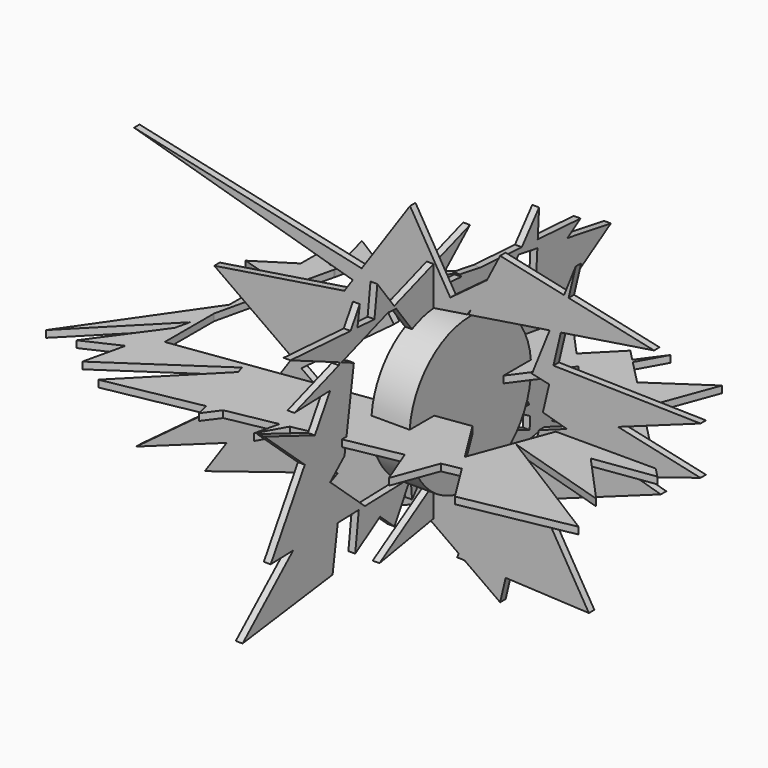
from build123d import *

# Parameters (mm, degrees)
F3_DEPTH = 3.556
F4_DEPTH = 3.556
F5_DEPTH = 3.556
F6_R     = 39.5240935615
F7_DEPTH = 19.812


with BuildPart() as f3:
    # F0 (on Front) → F3 (new body)
    with BuildSketch(Plane.XZ):
        Polygon((-65.1239782959, -10.4550908516), (-17.0232172991, 25.2769034648), (-23.0411367184, 34.212603782), (-25.5286680691, 34.9284764567), (-42.7567087754, 32.2481595858), (-69.7158570822, -7.1887027391), align=None)
        Polygon((-34.5774892022, -32.1840374318), (-65.1239782959, -10.4550908516), (-78.9904087515, -20.7558678863), (-103.9248145182, -57.2308602037), align=None)
        Polygon((-78.9904087515, -20.7558678863), (-65.1239782959, -10.4550908516), (-69.7158570822, -7.1887027391), align=None)
        Polygon((-32.773122484, -33.4675560683), (-34.5774892022, -32.1840374318), (-103.9248145182, -57.2308602037), (-115.2916625142, -73.8587155938), (-46.0811876107, -52.1759948206), align=None)
        Polygon((-18.5833732954, -43.561295521), (-32.773122484, -33.4675560683), (-46.0811876107, -52.1759948206), align=None)
        Polygon((-25.5286680691, 34.9284764567), (-23.7134490601, 35.2108859435), (-23.7789023668, 35.3080742061), (-23.1732105918, 35.2949355638), (-2.334726001, 38.5369607462), (-33.752168899, 45.4203412645), (-38.3935298862, 38.6307827753), align=None)
        Polygon((-42.7567087754, 32.2481595858), (-25.5286680691, 34.9284764567), (-38.3935298862, 38.6307827753), align=None)
        Polygon((-103.9248145182, -57.2308602037), (-78.9904087515, -20.7558678863), (-150.9600132704, -74.2190033197), align=None)
        Polygon((-110.3685515042, 21.7291942647), (-69.7158570822, -7.1887027391), (-42.7567087754, 32.2481595858), align=None)
        Polygon((27.6053097163, -41.4062016645), (33.2750505017, -27.3147414481), (-18.5833732954, -43.561295521), (-5.0383477875, -53.1964170823), align=None)
        Polygon((-18.5833732954, -43.561295521), (-46.0811876107, -52.1759948206), (-61.2486973405, -73.4984353185), (-5.0383477875, -53.1964170823), align=None)
        Polygon((63.6758798393, 24.0744177659), (60.4022208179, 10.1989086297), (72.8501194377, 6.6165978074), (99.4716943681, 16.2317612784), align=None)
        Polygon((57.7598698803, 33.5393383482), (54.7394095995, 26.0323468485), (63.6758798393, 24.0744177659), (65.8674524887, 33.3634689834), align=None)
        Polygon((-152.0408838987, 71.3367164135), (-38.3935298862, 38.6307827753), (-33.752168899, 45.4203412645), align=None)
        Polygon((72.8501194377, 6.6165978074), (58.3187800588, 1.3681779094), (53.0103089894, -21.1319475896), (108.6744964225, -3.6930984145), align=None)
        Polygon((16.653158761, -68.6264583415), (27.6053097163, -41.4062016645), (-5.0383477875, -53.1964170823), align=None)
        Polygon((50.1479198481, -33.2642761005), (27.6053097163, -41.4062016645), (16.653158761, -68.6264583415), (19.7069080191, -70.7987130413), (41.0538269193, -71.8098817039), align=None)
        Polygon((99.4716943681, 16.2317612784), (72.8501194377, 6.6165978074), (108.6744964225, -3.6930984145), (142.3131525517, 6.8454449065), align=None)
        Polygon((65.8674524887, 33.3634689834), (63.6758798393, 24.0744177659), (99.4716943681, 16.2317612784), (142.3131525517, 31.705211848), align=None)
        Polygon((63.9179333687, 48.8444660325), (57.7598698803, 33.5393383482), (65.8674524887, 33.3634689834), (69.7333551933, 49.7492220342), align=None)
        Polygon((23.0421265071, 44.9973565437), (21.6442713106, 42.2675829416), (63.9179333687, 48.8444660325), (71.3846735943, 67.4021526742), (38.1903685629, 74.5792984962), (31.3417952934, 61.2051989689), (38.1903685629, 66.2927106023), align=None)
        Polygon((-33.752168899, 45.4203412645), (-2.334726001, 38.5369607462), (1.6644103955, 39.1591413491), (12.2712666739, 47.0385203942), (-8.6468728259, 82.1453183889), align=None)
        Polygon((12.2712666739, 47.0385203942), (1.6644103955, 39.1591413491), (15.667999691, 41.3378021313), align=None)
        Polygon((15.667999691, 41.3378021313), (21.032639825, 42.1724260855), (23.0421265071, 44.9973565437), (31.3417952934, 61.2051989689), (12.2712666739, 47.0385203942), align=None)
        Polygon((108.6744964225, -3.6930984145), (53.0103089894, -21.1319475896), (52.9762296172, -21.2763941056), (58.3532806289, -30.3006691219), (121.6684211309, -7.4325470176), align=None)
        Polygon((58.3532806289, -30.3006691219), (52.9762296172, -21.2763941056), (50.1479198481, -33.2642761005), align=None)
        Polygon((58.3532806289, -30.3006691219), (50.1479198481, -33.2642761005), (41.0538269193, -71.8098817039), (84.3070372939, -73.8587155938), align=None)
        Polygon((19.7069080191, -70.7987130413), (16.653158761, -68.6264583415), (15.8526040614, -70.6161409616), align=None)
        Polygon((71.3846735943, 67.4021526742), (63.9179333687, 48.8444660325), (69.7333551933, 49.7492220342), (73.77622606, 66.8850603365), align=None)
        Polygon((31.3417952934, 61.2051989689), (23.0421265071, 44.9973565437), (38.1903685629, 66.2927106023), align=None)
        Polygon((38.1903685629, -83.9467421174), (41.0538269193, -71.8098817039), (19.7069080191, -70.7987130413), align=None)
        Polygon((73.77622606, 66.8850603365), (69.7333551933, 49.7492220342), (118.1739643216, 57.2855509818), align=None)
        Polygon((77.4615928531, 82.5056061149), (71.3846735943, 67.4021526742), (73.77622606, 66.8850603365), align=None)
    extrude(amount=F3_DEPTH)

    # F1 (on Right) → F4 (join)
    with BuildSketch(Plane.YZ):
        Polygon((-17.0405098304, 34.7231878488), (-14.1103638739, 30.8334620536), (22.7134725939, 32.0609231749), (14.4226974478, 46.3861233505), (-2.7393819765, 47.4506395433), align=None)
        Polygon((1.5405498355, -19.4453586194), (-1.3977497459, -18.3029092467), (-15.8718191373, -27.5831953109), (-18.4110963559, -31.9961349281), (-18.3919173806, -32.2190905376), (-8.7627724866, -31.9411695668), align=None)
        Polygon((14.4226974478, 46.3861233505), (22.7134725939, 32.0609231749), (44.6115098417, 32.7908576937), (51.7234647767, 41.4161963521), (26.8001406624, 45.618384873), align=None)
        Polygon((-27.7990729753, 49.0050226805), (-17.0405098304, 34.7231878488), (-2.7393819765, 47.4506395433), align=None)
        Polygon((-18.4110963559, -31.9961349281), (-18.6381306395, -29.3568611258), (-23.3242610382, -32.3614501918), (-18.5418791959, -32.223418807), align=None)
        Polygon((19.6474629743, -26.4855636712), (1.5405498355, -19.4453586194), (-8.7627724866, -31.9411695668), (11.911392082, -31.3444619724), align=None)
        Polygon((-18.3919173806, -32.2190905376), (-18.4110963559, -31.9961349281), (-18.5418791959, -32.223418807), align=None)
        Polygon((62.8931971637, 22.9182817345), (37.4472486214, 6.6031960968), (46.3821287241, -8.8349196113), (47.1904515883, -9.1862676267), (61.4576671233, -0.2252652921), align=None)
        Polygon((13.5766742751, 47.8479228914), (14.4226974478, 46.3861233505), (26.8001406624, 45.618384873), align=None)
        Polygon((-27.7990729753, 49.0050226805), (-2.7393819765, 47.4506395433), (20.1349593699, 67.8079202771), (-29.0801722407, 50.7056631717), align=None)
        Polygon((-33.0388285673, 49.330030189), (-27.7990729753, 49.0050226805), (-29.0801722407, 50.7056631717), align=None)
        Polygon((-38.2342534871, -41.9212354463), (-23.3242610382, -32.3614501918), (-48.1455165609, -33.0778531025), align=None)
        Polygon((-18.5418791959, -32.223418807), (-23.3242610382, -32.3614501918), (-38.2342534871, -41.9212354463), (-28.9096068591, -50.2412058413), align=None)
        Polygon((-48.1455165609, -33.0778531025), (-51.6753255819, -29.9283603951), (-52.0745784839, -33.191255561), align=None)
        Polygon((-52.0745784839, -33.191255561), (-51.6753255819, -29.9283603951), (-63.5631413583, -19.3213873626), (-65.7253894157, -33.5852517743), align=None)
        Polygon((-17.5038948655, -42.5423532724), (-8.7627724866, -31.9411695668), (-18.3919173806, -32.2190905376), align=None)
        Polygon((30.7460676779, -30.8008465857), (19.6474629743, -26.4855636712), (11.911392082, -31.3444619724), align=None)
        Polygon((53.807100575, 43.9432180452), (51.7234647767, 41.4161963521), (63.9130914267, 39.3609685283), (64.1574937933, 43.3012118576), align=None)
        Polygon((26.8001406624, 45.618384873), (51.7234647767, 41.4161963521), (53.807100575, 43.9432180452), align=None)
        Polygon((63.9130914267, 39.3609685283), (62.8931971637, 22.9182817345), (83.4109062667, 36.0735461393), align=None)
        Polygon((83.4109062667, 36.0735461393), (62.8931971637, 22.9182817345), (61.4576671233, -0.2252652921), (111.6658076644, 31.3096381724), align=None)
        Polygon((47.1904515883, -9.1862676267), (46.7467582636, -9.4649440725), (58.6292408407, -29.9960691482), (49.9721885851, -30.2459331177), (59.2694348518, -35.5038418832), (60.5418741173, -14.9896365711), align=None)
        Polygon((61.4576671233, -0.2252652921), (47.1904515883, -9.1862676267), (60.5418741173, -14.9896365711), align=None)
        Polygon((-70.6561202174, -12.9926355638), (-61.3480298199, -4.7087944491), (-59.9572608441, 4.4657958719), (-80.6291450837, 12.503295292), (-87.1571400767, 1.7304957455), align=None)
        Polygon((-80.6291450837, 12.503295292), (-59.9572608441, 4.4657958719), (-56.1727470468, 29.4313827223), (-70.6639369443, 28.9483430962), align=None)
        Polygon((-70.6639369443, 28.9483430962), (-56.1727470468, 29.4313827223), (-55.2752771143, 35.3517901369), (-63.2673134684, 38.8256323795), (-65.0550454063, 38.2043955721), align=None)
        Polygon((-41.9098176855, 49.880273043), (-42.3740873852, 46.086027964), (-33.0388285673, 49.330030189), align=None)
        Polygon((-54.2749891695, 41.950464867), (-42.3740873852, 46.086027964), (-41.9098176855, 49.880273043), (-52.9689306797, 50.5662391529), align=None)
        Polygon((-41.9098176855, 49.880273043), (-33.0388285673, 49.330030189), (-29.0801722407, 50.7056631717), (-40.0301776826, 65.2416348457), align=None)
        Polygon((-38.2342534871, -41.9212354463), (-48.1455165609, -33.0778531025), (-52.0745784839, -33.191255561), (-54.412003214, -52.2938639919), align=None)
        Polygon((-65.7253894157, -33.5852517743), (-63.5631413583, -19.3213873626), (-70.6561202174, -12.9926355638), (-94.7357339239, -34.4225621686), align=None)
        Polygon((30.7460676779, -30.8008465857), (11.911392082, -31.3444619724), (-38.6044643819, -63.0726367235), (45.5051778543, -48.3052955011), (32.9705432324, -31.6657518247), align=None)
        Polygon((64.1574937933, 43.3012118576), (63.9130914267, 39.3609685283), (83.4109062667, 36.0735461393), (91.9909477234, 41.5747798979), align=None)
        Polygon((65.0425138841, 57.5694636616), (53.807100575, 43.9432180452), (64.1574937933, 43.3012118576), align=None)
        Polygon((110.8103841543, -36.8394963443), (60.5418741173, -14.9896365711), (59.2694348518, -35.5038418832), (73.2820341389, -43.4284430507), align=None)
        Polygon((-94.7357339239, -34.4225621686), (-70.6561202174, -12.9926355638), (-87.1571400767, 1.7304957455), (-109.3198880553, -34.8434969783), align=None)
        Polygon((-87.1571400767, 1.7304957455), (-80.6291450837, 12.503295292), (-113.5970279574, 25.3216400743), align=None)
        Polygon((-93.922175467, 28.1730685383), (-70.6639369443, 28.9483430962), (-65.0550454063, 38.2043955721), align=None)
        Polygon((-63.2673134684, 38.8256323795), (-54.2749891695, 41.950464867), (-52.9689306797, 50.5662391529), (-57.3976754835, 50.8409419113), (-64.3843698508, 39.3111754222), align=None)
        Polygon((-65.0550454063, 38.2043955721), (-63.2673134684, 38.8256323795), (-64.3843698508, 39.3111754222), align=None)
        Polygon((58.8825803756, -41.7406913464), (32.9705432324, -31.6657518247), (45.5051778543, -48.3052955011), (58.6182006227, -46.0030091457), align=None)
        Polygon((73.2820341389, -43.4284430507), (59.2694348518, -35.5038418832), (58.8825803756, -41.7406913464), (66.352473084, -44.6450834965), align=None)
        Polygon((-69.1147446632, -55.9440664947), (-65.7253894157, -33.5852517743), (-94.7357339239, -34.4225621686), (-127.5690197945, -63.6429190636), align=None)
        Polygon((-57.3976754835, 50.8409419113), (-52.9689306797, 50.5662391529), (-51.4358915389, 60.6793537736), align=None)
        Polygon((-96.4884608984, 53.2656349242), (-64.3843698508, 39.3111754222), (-57.3976754835, 50.8409419113), align=None)
        Polygon((58.6182006227, -46.0030091457), (45.5051778543, -48.3052955011), (57.4886724353, -64.2132088542), align=None)
        Polygon((66.352473084, -44.6450834965), (58.8825803756, -41.7406913464), (58.6182006227, -46.0030091457), align=None)
        Polygon((95.4126641154, -55.9440664947), (73.2820341389, -43.4284430507), (66.352473084, -44.6450834965), align=None)
    extrude(amount=F4_DEPTH)

    # F2 (on Top) → F5 (join)
    with BuildSketch(Plane.XY):
        Polygon((-24.6305979074, -68.4147898534), (-15.3909838208, -28.376457832), (-17.1576940572, -28.6260407169), (-49.9996889616, -73.2195417316), align=None)
        Polygon((3.4224909563, -25.7186811285), (-15.3909838208, -28.376457832), (-24.6305979074, -68.4147898534), (-19.9379785084, -67.5260362192), align=None)
        Polygon((-49.9996889616, -73.2195417316), (-17.1576940572, -28.6260407169), (-57.496164901, -34.3246503218), (-66.2709773638, -43.2254172702), (-57.774279522, -74.692001999), align=None)
        Polygon((-53.4753547103, 49.6673199483), (-44.4958595902, 44.0442376237), (-38.4326082866, 50.1945214083), (-47.7836542349, 57.5031544314), align=None)
        Polygon((-38.4326082866, 50.1945214083), (-3.5507163001, 22.9313736183), (-1.9962632559, 29.6673375353), (-15.1248474797, 63.4859082926), (-19.0880716891, 69.8167313087), align=None)
        Polygon((5.8691677758, 29.9502343166), (14.4802742337, 16.1949209461), (17.2081658796, 18.0365939503), (38.4599162975, 46.8926350216), (30.8450055713, 55.2845776434), align=None)
        Polygon((-1.9962632559, 29.6673375353), (0.1471307658, 24.1460626477), (5.8691677758, 29.9502343166), (0.1699259008, 39.0541582257), align=None)
        Polygon((31.9218818415, -57.7040934115), (18.6688052671, -23.5648366382), (3.4224909563, -25.7186811285), (-19.9379785084, -67.5260362192), align=None)
        Polygon((37.688621864, -20.8779100573), (18.6688052671, -23.5648366382), (31.9218818415, -57.7040934115), (48.2246833133, -54.616441756), (52.1592351414, -43.993153292), align=None)
        Polygon((-19.9379785084, -67.5260362192), (-24.6305979074, -68.4147898534), (-27.5828075631, -81.2076997397), align=None)
        Polygon((-66.2709773638, -43.2254172702), (-57.496164901, -34.3246503218), (-61.1045124091, -34.8344010222), (-67.3907622351, -39.0784173196), align=None)
        Polygon((-55.9794455767, -81.3389718533), (-49.9996889616, -73.2195417316), (-57.774279522, -74.692001999), align=None)
        Polygon((-67.3907622351, -39.0784173196), (-61.1045124091, -34.8344010222), (-68.2636506028, -35.8457713796), align=None)
        Polygon((-66.5381118702, 57.8473966578), (-53.4753547103, 49.6673199483), (-47.7836542349, 57.5031544314), (-60.1150970792, 67.141219616), align=None)
        Polygon((-47.7836542349, 57.5031544314), (-38.4326082866, 50.1945214083), (-19.0880716891, 69.8167313087), (-28.2309874892, 84.4215527177), align=None)
        Polygon((-15.1248474797, 63.4859082926), (-1.9962632559, 29.6673375353), (0.1699259008, 39.0541582257), align=None)
        Polygon((0.1699259008, 39.0541582257), (5.8691677758, 29.9502343166), (30.8450055713, 55.2845776434), (9.375475347, 78.94487679), align=None)
        Polygon((48.2246833133, -54.616441756), (31.9218818415, -57.7040934115), (39.6797098219, -77.6878669858), align=None)
        Polygon((-57.774279522, -74.692001999), (-66.2709773638, -43.2254172702), (-106.3648015261, -83.894751966), align=None)
        Polygon((-67.3907622351, -39.0784173196), (-68.2636506028, -35.8457713796), (-81.5906877083, -37.7284798727), (-116.3250234048, -53.790039372), (-121.3343665004, -75.4971951246), align=None)
        Polygon((-116.3250234048, -53.790039372), (-81.5906877083, -37.7284798727), (-105.9996932745, -41.1767363548), (-105.9996932745, -22.6435869772), (-110.5984050148, -28.9746903423), align=None)
        Polygon((-78.0050636038, 65.0281582426), (-66.5381118702, 57.8473966578), (-60.1150970792, 67.141219616), (-66.6537436061, 72.2517247079), align=None)
        Polygon((-18.0078726262, 70.9124356508), (-19.0880716891, 69.8167313087), (-15.1248474797, 63.4859082926), align=None)
        Polygon((51.8956824588, 65.135980278), (38.4599162975, 46.8926350216), (41.8856313695, 43.1173571023), (53.3545560295, 63.6428609453), align=None)
        Polygon((30.8450055713, 55.2845776434), (38.4599162975, 46.8926350216), (51.8956824588, 65.135980278), (46.2517142296, 70.9124356508), align=None)
        Polygon((57.6876577354, -52.8242118322), (52.1592351414, -43.993153292), (48.2246833133, -54.616441756), align=None)
        Polygon((58.8752840751, -25.8598236836), (52.1592351414, -43.993153292), (57.6876577354, -52.8242118322), (86.4139571786, -47.3836250603), align=None)
        Polygon((-134.8434835672, -62.3531900346), (-116.3250234048, -53.790039372), (-110.5984050148, -28.9746903423), align=None)
        Polygon((-97.742032112, 26.7362649049), (-92.0433484358, 51.4305634952), (-95.945977417, 53.6112143628), (-105.9996932745, 47.2133958946), (-105.9996932745, 29.2809218948), align=None)
        Polygon((-95.945977417, 53.6112143628), (-92.0433484358, 51.4305634952), (-91.9451545373, 51.8560704345), (-92.9362527421, 55.5264934877), align=None)
        Polygon((-92.9362527421, 55.5264934877), (-91.9451545373, 51.8560704345), (-90.7817365039, 56.8975491226), align=None)
        Polygon((-66.6537436061, 72.2517247079), (-60.1150970792, 67.141219616), (-48.6772209406, 83.691328764), align=None)
        Polygon((-87.5291139292, 70.9922484644), (-78.0050636038, 65.0281582426), (-66.6537436061, 72.2517247079), (-84.0930193663, 85.8819931746), align=None)
        Polygon((-90.7817365039, 56.8975491226), (-78.0050636038, 65.0281582426), (-87.5291139292, 70.9922484644), align=None)
        Polygon((-108.8004005379, -21.1833367696), (-105.9996932745, -18.34242789), (-105.9996932745, -9.0469373207), align=None)
        Polygon((-105.9996932745, -22.6435869772), (-105.9996932745, -18.34242789), (-108.8004005379, -21.1833367696), (-110.5984050148, -28.9746903423), align=None)
        Polygon((41.8856313695, 43.1173571023), (46.6236999622, 37.8958120052), (65.8371031261, 50.8672971374), (53.3545560295, 63.6428609453), align=None)
        Polygon((65.8371031261, 50.8672971374), (46.6236999622, 37.8958120052), (72.0928944778, 9.8277194586), (81.3952125858, 34.9439748701), align=None)
        Polygon((61.3991617465, 78.039989748), (51.8956824588, 65.135980278), (53.3545560295, 63.6428609453), align=None)
        Polygon((60.3158171375, -21.9703849542), (58.8752840751, -25.8598236836), (86.4139571786, -47.3836250603), (57.6876577354, -52.8242118322), (70.7313390328, -73.6600852043), (126.5761852264, -63.0834102631), (61.5109536702, -22.3386747728), align=None)
        Polygon((60.4300975367, -21.6618279191), (60.3158171375, -21.9703849542), (61.5109536702, -22.3386747728), align=None)
        Polygon((-105.9996932745, 47.2133958946), (-95.945977417, 53.6112143628), (-105.9996932745, 59.228874743), align=None)
        Polygon((-102.6061166594, 5.6585629289), (-97.742032112, 26.7362649049), (-105.9996932745, 29.2809218948), (-105.9996932745, 0.7482052102), align=None)
        Polygon((-92.9362527421, 55.5264934877), (-90.7817365039, 56.8975491226), (-87.5291139292, 70.9922484644), (-99.06257689, 78.2146602869), align=None)
        Polygon((-105.9996932745, -9.0469373207), (-102.6061166594, 5.6585629289), (-105.9996932745, 0.7482052102), align=None)
        Polygon((-108.8004005379, -21.1833367696), (-105.9996932745, -9.0469373207), (-105.9996932745, 0.7482052102), (-150.1294372298, -63.1056143521), align=None)
        Polygon((94.446413219, 70.1822116971), (65.8371031261, 50.8672971374), (81.3952125858, 34.9439748701), align=None)
        Polygon((92.8804123796, -13.0809742547), (72.0928944778, 9.8277194586), (61.9920454547, -17.4445691247), align=None)
        Polygon((81.3952125858, 34.9439748701), (72.0928944778, 9.8277194586), (92.8804123796, -13.0809742547), (124.0204274654, -8.6818290874), align=None)
        Polygon((92.8804123796, -13.0809742547), (61.9920454547, -17.4445691247), (60.4300975367, -21.6618279191), (61.5109536702, -22.3386747728), (116.7181879282, -39.3511764705), align=None)
        Polygon((-105.9996932745, 29.2809218948), (-105.9996932745, 47.2133958946), (-124.985486269, 35.1315289736), align=None)
    extrude(amount=F5_DEPTH)

    # F6 (on Right) → F7 (join)
    with BuildSketch(Plane.YZ):
        Circle(F6_R)
    extrude(amount=F7_DEPTH)


solid = f3.part
